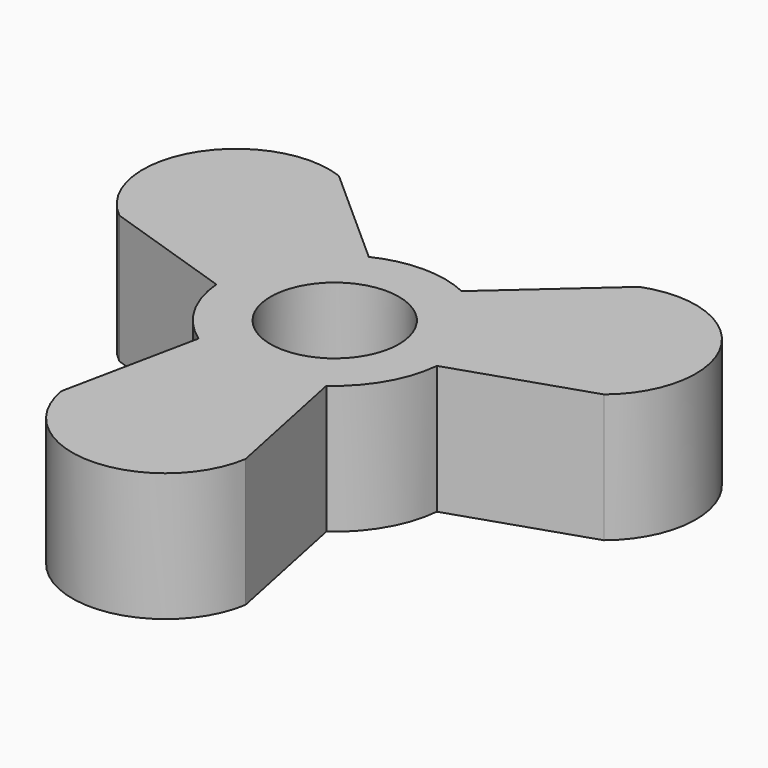
from build123d import *

# Parameters (mm, degrees)
F0_R     = 12.7
F1_DEPTH = 25.4


with BuildPart() as f1:
    # F0 (on Top) → F1 (new body)
    with BuildSketch(Plane.XY):
        with BuildLine():
            ThreePointArc((-21.815065, -2.003304), (-18.992355, -10.965241), (-12.642445, -17.890748))
            Line((-12.642445, -17.890748), (-18.20317, -44.816366))
            ThreePointArc((-18.20317, -44.816366), (0, -60.299885), (18.20317, -44.816366))
            Line((18.20317, -44.816366), (12.642445, -17.890748))
            ThreePointArc((12.642445, -17.890748), (18.942062, -10.936205), (21.815065, -2.003304))
            Line((21.815065, -2.003304), (47.913697, 6.643775))
            ThreePointArc((47.913697, 6.643775), (52.221232, 30.149942), (29.710526, 38.172591))
            Line((29.710526, 38.172591), (9.17262, 19.894052))
            ThreePointArc((9.17262, 19.894052), (0, 21.967426), (-9.17262, 19.894052))
            Line((-9.17262, 19.894052), (-29.710526, 38.172591))
            ThreePointArc((-29.710526, 38.172591), (-52.221232, 30.149942), (-47.913697, 6.643775))
            Line((-47.913697, 6.643775), (-21.815065, -2.003304))
        make_face()
        Circle(F0_R, mode=Mode.SUBTRACT)
    extrude(amount=F1_DEPTH)


solid = f1.part
